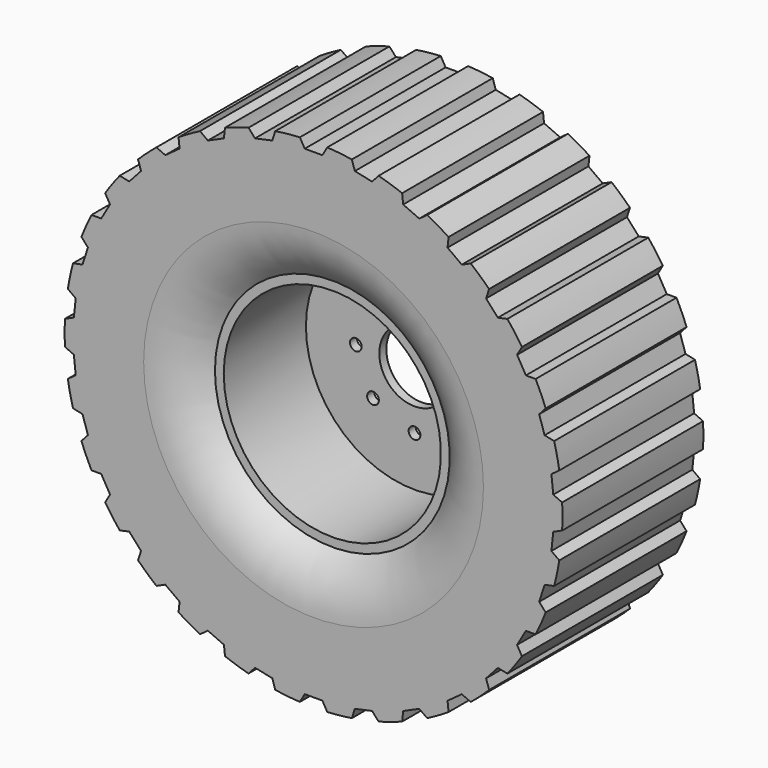
from build123d import *

# Parameters (mm, degrees)
F2_R     = 12.7
F3_DEPTH = 381.001
F5_DEPTH = 381.001


with BuildPart() as f1:
    # F0 (on Top) → F1 (revolve)
    with BuildSketch(Plane.XY):
        with BuildLine():
            Line((-367.592253, 190.5), (-538.48, 190.5))
            Line((-538.48, 190.5), (-538.48, -190.5))
            Line((-538.48, -190.5), (-367.592253, -190.5))
            ThreePointArc((-367.592253, -190.5), (-305.375214, -177.22153), (-254, -139.7))
            Line((-254, -139.7), (-254, 139.7))
            ThreePointArc((-254, 139.7), (-305.375214, 177.22153), (-367.592253, 190.5))
        make_face()
        Polygon((-234.95, 139.7), (-254, 139.7), (-254, -139.7), (-234.95, -139.7), (-234.95, 82.55), (-76.2, 82.55), (-76.2, 101.6), (-204.931125, 101.6), (-234.95, 101.6), (-234.95, 120.65), align=None)
        Polygon((-204.931125, 115.529336), (-234.95, 120.65), (-234.95, 101.6), (-204.931125, 101.6), align=None)
    revolve(axis=Axis((0, 171.656604, 0), (0, 1, 0)))

    # F2 (on face) → F3 (cut, through all)
    with BuildSketch(Plane.XZ.offset(190.5)):
        with Locations((0, 127)):
            Circle(F2_R)
        with Locations((-89.802561, 89.802561)):
            Circle(F2_R)
        with Locations((-127, 0)):
            Circle(F2_R)
        with Locations((-89.802561, -89.802561)):
            Circle(F2_R)
        with Locations((0, -127)):
            Circle(F2_R)
        with Locations((89.802561, -89.802561)):
            Circle(F2_R)
        with Locations((127, 0)):
            Circle(F2_R)
        with Locations((89.802561, 89.802561)):
            Circle(F2_R)
    extrude(amount=-F3_DEPTH, mode=Mode.SUBTRACT)

    # F4 (on face) → F5 (cut, through all)
    with BuildSketch(Plane(origin=(0, 190.5, 0), x_dir=(-1, 0, 0), z_dir=(0, 1, 0))):
        with BuildLine():
            ThreePointArc((29.579128, 537.666984), (0, 538.48), (-29.579128, 537.666984))
            Line((-29.579128, 537.666984), (-19.05, 519.43))
            Line((-19.05, 519.43), (19.05, 519.43))
            Line((19.05, 519.43), (29.579128, 537.666984))
        make_face()
        with BuildLine():
            ThreePointArc((-82.854499, 532.067517), (-111.956287, 526.71292), (-140.720004, 519.767824))
            Line((-140.720004, 519.767824), (-126.629281, 504.118491))
            Line((-126.629281, 504.118491), (-89.361858, 512.039926))
            Line((-89.361858, 512.039926), (-82.854499, 532.067517))
        make_face()
        with BuildLine():
            ThreePointArc((-191.666986, 503.214146), (-219.019548, 491.925958), (-245.710742, 479.152316))
            Line((-245.710742, 479.152316), (-228.674255, 466.774584))
            Line((-228.674255, 466.774584), (-193.868174, 482.27125))
            Line((-193.868174, 482.27125), (-191.666986, 503.214146))
        make_face()
        with BuildLine():
            ThreePointArc((-292.102707, 452.367902), (-316.510603, 435.639471), (-339.962741, 417.595552))
            Line((-339.962741, 417.595552), (-320.725067, 409.030388))
            Line((-320.725067, 409.030388), (-289.90152, 431.425006))
            Line((-289.90152, 431.425006), (-292.102707, 452.367902))
        make_face()
        with BuildLine():
            ThreePointArc((-379.772137, 381.751011), (-400.168626, 360.313449), (-419.356737, 337.787859))
            Line((-419.356737, 337.787859), (-398.758655, 333.409602))
            Line((-398.758655, 333.409602), (-373.264779, 361.72342))
            Line((-373.264779, 361.72342), (-379.772137, 381.751011))
        make_face()
        with BuildLine():
            ThreePointArc((-450.843703, 294.449768), (-466.337359, 269.24), (-480.422831, 243.217216))
            Line((-480.422831, 243.217216), (-459.364575, 243.217216))
            Line((-459.364575, 243.217216), (-440.314575, 276.212784))
            Line((-440.314575, 276.212784), (-450.843703, 294.449768))
        make_face()
        with BuildLine():
            ThreePointArc((-502.211236, 194.279657), (-512.124913, 166.399471), (-520.492142, 138.016813))
            Line((-520.492142, 138.016813), (-499.89406, 142.395071))
            Line((-499.89406, 142.395071), (-488.120513, 178.630324))
            Line((-488.120513, 178.630324), (-502.211236, 194.279657))
        make_face()
        with BuildLine():
            ThreePointArc((-531.629727, 85.618594), (-535.53015, 56.286487), (-537.813449, 26.784414))
            Line((-537.813449, 26.784414), (-518.575775, 35.349578))
            Line((-518.575775, 35.349578), (-514.593241, 73.240862))
            Line((-514.593241, 73.240862), (-531.629727, 85.618594))
        make_face()
        with BuildLine():
            ThreePointArc((-537.813449, -26.784414), (-535.53015, -56.286487), (-531.629727, -85.618594))
            Line((-531.629727, -85.618594), (-514.593241, -73.240862))
            Line((-514.593241, -73.240862), (-518.575775, -35.349578))
            Line((-518.575775, -35.349578), (-537.813449, -26.784414))
        make_face()
        with BuildLine():
            ThreePointArc((-520.492142, -138.016813), (-512.124913, -166.399471), (-502.211236, -194.279657))
            Line((-502.211236, -194.279657), (-488.120513, -178.630324))
            Line((-488.120513, -178.630324), (-499.89406, -142.395071))
            Line((-499.89406, -142.395071), (-520.492142, -138.016813))
        make_face()
        with BuildLine():
            ThreePointArc((-480.422831, -243.217216), (-466.337359, -269.24), (-450.843703, -294.449768))
            Line((-450.843703, -294.449768), (-440.314575, -276.212784))
            Line((-440.314575, -276.212784), (-459.364575, -243.217216))
            Line((-459.364575, -243.217216), (-480.422831, -243.217216))
        make_face()
        with BuildLine():
            ThreePointArc((-419.356737, -337.787859), (-400.168626, -360.313449), (-379.772137, -381.751011))
            Line((-379.772137, -381.751011), (-373.264779, -361.72342))
            Line((-373.264779, -361.72342), (-398.758655, -333.409602))
            Line((-398.758655, -333.409602), (-419.356737, -337.787859))
        make_face()
        with BuildLine():
            ThreePointArc((-339.962741, -417.595552), (-316.510603, -435.639471), (-292.102707, -452.367902))
            Line((-292.102707, -452.367902), (-289.90152, -431.425006))
            Line((-289.90152, -431.425006), (-320.725067, -409.030388))
            Line((-320.725067, -409.030388), (-339.962741, -417.595552))
        make_face()
        with BuildLine():
            ThreePointArc((-245.710742, -479.152316), (-219.019548, -491.925958), (-191.666986, -503.214146))
            Line((-191.666986, -503.214146), (-193.868174, -482.27125))
            Line((-193.868174, -482.27125), (-228.674255, -466.774584))
            Line((-228.674255, -466.774584), (-245.710742, -479.152316))
        make_face()
        with BuildLine():
            ThreePointArc((-140.720004, -519.767824), (-111.956287, -526.71292), (-82.854499, -532.067517))
            Line((-82.854499, -532.067517), (-89.361858, -512.039926))
            Line((-89.361858, -512.039926), (-126.629281, -504.118491))
            Line((-126.629281, -504.118491), (-140.720004, -519.767824))
        make_face()
        with BuildLine():
            ThreePointArc((-29.579128, -537.666984), (0, -538.48), (29.579128, -537.666984))
            Line((29.579128, -537.666984), (19.05, -519.43))
            Line((19.05, -519.43), (-19.05, -519.43))
            Line((-19.05, -519.43), (-29.579128, -537.666984))
        make_face()
        with BuildLine():
            ThreePointArc((82.854499, -532.067517), (111.956287, -526.71292), (140.720004, -519.767824))
            Line((140.720004, -519.767824), (126.629281, -504.118491))
            Line((126.629281, -504.118491), (89.361858, -512.039926))
            Line((89.361858, -512.039926), (82.854499, -532.067517))
        make_face()
        with BuildLine():
            ThreePointArc((191.666986, -503.214146), (219.019548, -491.925958), (245.710742, -479.152316))
            Line((245.710742, -479.152316), (228.674255, -466.774584))
            Line((228.674255, -466.774584), (193.868174, -482.27125))
            Line((193.868174, -482.27125), (191.666986, -503.214146))
        make_face()
        with BuildLine():
            ThreePointArc((292.102707, -452.367902), (316.510603, -435.639471), (339.962741, -417.595552))
            Line((339.962741, -417.595552), (320.725067, -409.030388))
            Line((320.725067, -409.030388), (289.90152, -431.425006))
            Line((289.90152, -431.425006), (292.102707, -452.367902))
        make_face()
        with BuildLine():
            ThreePointArc((379.772137, -381.751011), (400.168626, -360.313449), (419.356737, -337.787859))
            Line((419.356737, -337.787859), (398.758655, -333.409602))
            Line((398.758655, -333.409602), (373.264779, -361.72342))
            Line((373.264779, -361.72342), (379.772137, -381.751011))
        make_face()
        with BuildLine():
            ThreePointArc((450.843703, -294.449768), (466.337359, -269.24), (480.422831, -243.217216))
            Line((480.422831, -243.217216), (459.364575, -243.217216))
            Line((459.364575, -243.217216), (440.314575, -276.212784))
            Line((440.314575, -276.212784), (450.843703, -294.449768))
        make_face()
        with BuildLine():
            ThreePointArc((502.211236, -194.279657), (512.124913, -166.399471), (520.492142, -138.016813))
            Line((520.492142, -138.016813), (499.89406, -142.395071))
            Line((499.89406, -142.395071), (488.120513, -178.630324))
            Line((488.120513, -178.630324), (502.211236, -194.279657))
        make_face()
        with BuildLine():
            ThreePointArc((531.629727, -85.618594), (535.53015, -56.286487), (537.813449, -26.784414))
            Line((537.813449, -26.784414), (518.575775, -35.349578))
            Line((518.575775, -35.349578), (514.593241, -73.240862))
            Line((514.593241, -73.240862), (531.629727, -85.618594))
        make_face()
        with BuildLine():
            ThreePointArc((537.813449, 26.784414), (535.53015, 56.286487), (531.629727, 85.618594))
            Line((531.629727, 85.618594), (514.593241, 73.240862))
            Line((514.593241, 73.240862), (518.575775, 35.349578))
            Line((518.575775, 35.349578), (537.813449, 26.784414))
        make_face()
        with BuildLine():
            ThreePointArc((520.492142, 138.016813), (512.124913, 166.399471), (502.211236, 194.279657))
            Line((502.211236, 194.279657), (488.120513, 178.630324))
            Line((488.120513, 178.630324), (499.89406, 142.395071))
            Line((499.89406, 142.395071), (520.492142, 138.016813))
        make_face()
        with BuildLine():
            ThreePointArc((480.422831, 243.217216), (466.337359, 269.24), (450.843703, 294.449768))
            Line((450.843703, 294.449768), (440.314575, 276.212784))
            Line((440.314575, 276.212784), (459.364575, 243.217216))
            Line((459.364575, 243.217216), (480.422831, 243.217216))
        make_face()
        with BuildLine():
            ThreePointArc((419.356737, 337.787859), (400.168626, 360.313449), (379.772137, 381.751011))
            Line((379.772137, 381.751011), (373.264779, 361.72342))
            Line((373.264779, 361.72342), (398.758655, 333.409602))
            Line((398.758655, 333.409602), (419.356737, 337.787859))
        make_face()
        with BuildLine():
            ThreePointArc((339.962741, 417.595552), (316.510603, 435.639471), (292.102707, 452.367902))
            Line((292.102707, 452.367902), (289.90152, 431.425006))
            Line((289.90152, 431.425006), (320.725067, 409.030388))
            Line((320.725067, 409.030388), (339.962741, 417.595552))
        make_face()
        with BuildLine():
            ThreePointArc((245.710742, 479.152316), (219.019548, 491.925958), (191.666986, 503.214146))
            Line((191.666986, 503.214146), (193.868174, 482.27125))
            Line((193.868174, 482.27125), (228.674255, 466.774584))
            Line((228.674255, 466.774584), (245.710742, 479.152316))
        make_face()
        with BuildLine():
            ThreePointArc((140.720004, 519.767824), (111.956287, 526.71292), (82.854499, 532.067517))
            Line((82.854499, 532.067517), (89.361858, 512.039926))
            Line((89.361858, 512.039926), (126.629281, 504.118491))
            Line((126.629281, 504.118491), (140.720004, 519.767824))
        make_face()
    extrude(amount=-F5_DEPTH, mode=Mode.SUBTRACT)


solid = f1.part
